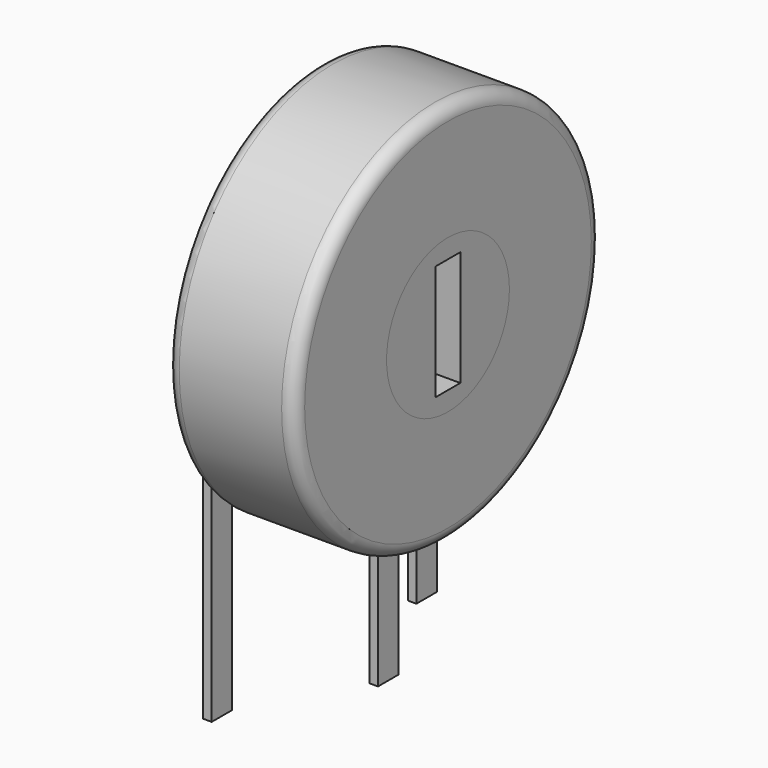
from build123d import *

# Parameters (mm, degrees)
SKETCH001_R       = 3
SKETCH001_W       = 1.2
SKETCH001_H       = 4.5
PAD001_DEPTH      = 5
SKETCH_R          = 7.5
SKETCH_R_2        = 3
PAD_DEPTH         = 5
FILLET_R          = 0.5
SKETCH003_W       = 0.333334
SKETCH003_H       = 1
PAD002_DEPTH      = 6
PAD002_DEPTH_BACK = 3


with BuildPart() as pad001:
    # Sketch001 → Pad001 (new body)
    with BuildSketch(Plane.YZ):
        with Locations((-5, 10)):
            Circle(SKETCH001_R)
        with Locations((-5, 10)):
            Rectangle(SKETCH001_W, SKETCH001_H, mode=Mode.SUBTRACT)
    extrude(amount=PAD001_DEPTH)


with BuildPart() as fillet_body:
    # Sketch → Pad (new body)
    with BuildSketch(Plane.YZ):
        with Locations((-5, 10)):
            Circle(SKETCH_R)
        with Locations((-5, 10)):
            Circle(SKETCH_R_2, mode=Mode.SUBTRACT)
    extrude(amount=PAD_DEPTH)

    # Fillet
    fillet_edges = [fillet_body.edges().sort_by_distance(p)[0] for p in [
        (0, -12.5, 10),
        (5, -12.5, 10),
    ]]
    fillet(fillet_edges, radius=FILLET_R)


with BuildPart() as pad002:
    # Sketch003 → Pad002 (new body, two sides)
    with BuildSketch(Plane.XY) as pad002_sk:
        Rectangle(SKETCH003_W, SKETCH003_H)
        with Locations((2.5, -5)):
            Rectangle(SKETCH003_W, SKETCH003_H)
        with Locations((0, -10)):
            Rectangle(SKETCH003_W, SKETCH003_H)
    extrude(amount=PAD002_DEPTH)
    extrude(pad002_sk.sketch, amount=-PAD002_DEPTH_BACK)


solid = Compound([pad001.part, fillet_body.part, pad002.part])
